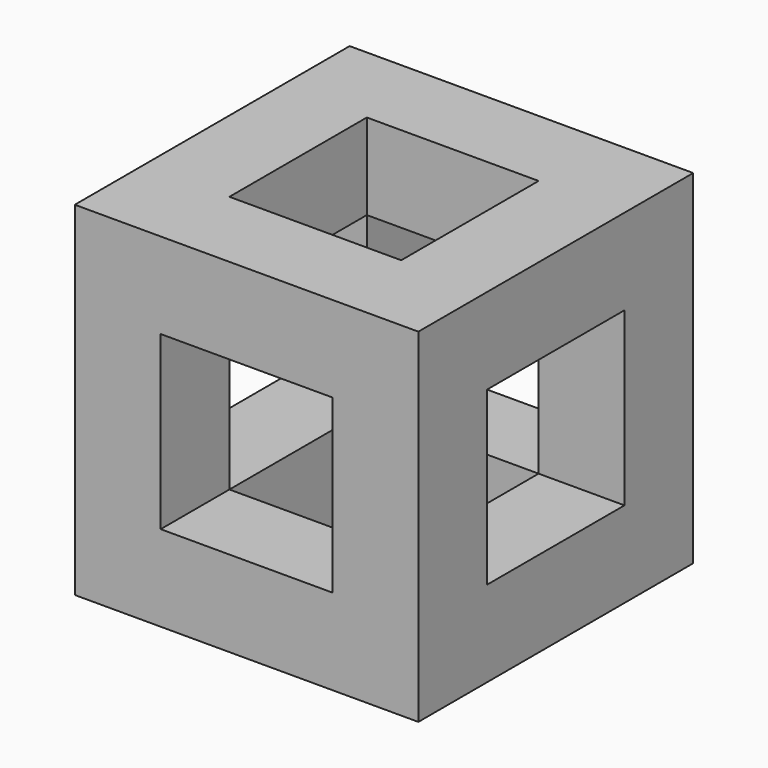
from build123d import *

# Parameters (mm, degrees)
F0_W     = 304.8
F0_H     = 304.8
F1_DEPTH = 152.4
F2_W     = 152.4
F2_H     = 152.4
F3_DEPTH = 304.801
F4_W     = 152.4
F4_H     = 152.4
F5_DEPTH = 304.801
F6_W     = 152.4
F6_H     = 152.4
F7_DEPTH = 304.801


with BuildPart() as f1:
    # F0 (on Front) → F1 (new body, symmetric)
    with BuildSketch(Plane.XZ):
        Rectangle(F0_W, F0_H)
    extrude(amount=F1_DEPTH, both=True)

    # F2 (on face) → F3 (cut, through all)
    with BuildSketch(Plane.YZ.offset(152.4)):
        Rectangle(F2_W, F2_H)
    extrude(amount=-F3_DEPTH, mode=Mode.SUBTRACT)

    # F4 (on face) → F5 (cut, through all)
    with BuildSketch(Plane.XZ.offset(152.4)):
        Rectangle(F4_W, F4_H)
    extrude(amount=-F5_DEPTH, mode=Mode.SUBTRACT)

    # F6 (on face) → F7 (cut, through all)
    with BuildSketch(Plane.XY.offset(152.4)):
        Rectangle(F6_W, F6_H)
    extrude(amount=-F7_DEPTH, mode=Mode.SUBTRACT)


solid = f1.part
